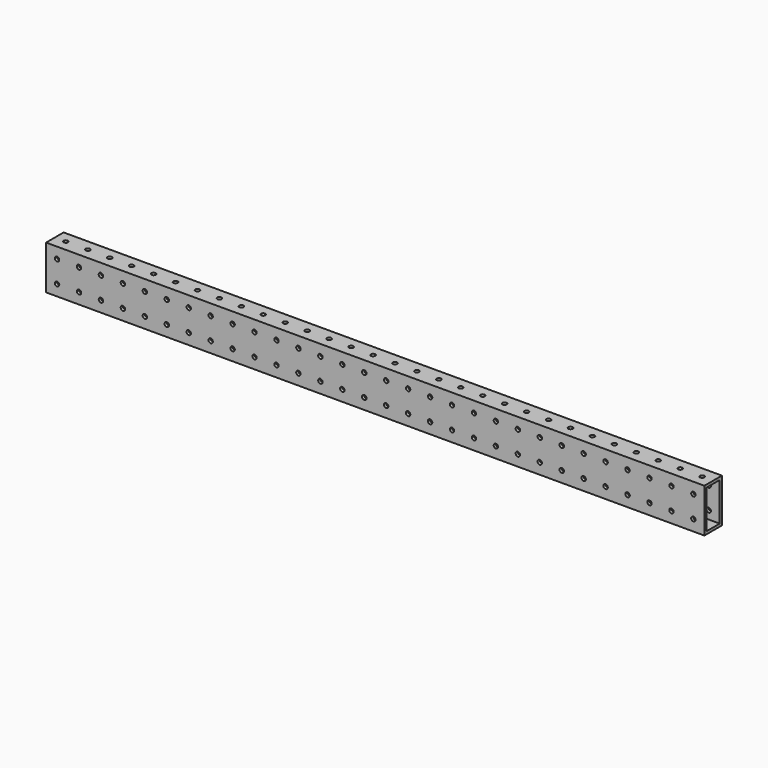
from build123d import *

# Parameters (mm, degrees)
F0_W     = 25.4
F0_H     = 50.8
F0_W_2   = 19.05
F0_H_2   = 44.45
F1_DEPTH = 762
F2_R     = 2.5527
F3_DEPTH = 50.801
F4_R     = 2.5527
F5_DEPTH = 25.4


with BuildPart() as f1:
    # F0 (on Right) → F1 (new body)
    with BuildSketch(Plane.YZ):
        Rectangle(F0_W, F0_H)
        Rectangle(F0_W_2, F0_H_2, mode=Mode.SUBTRACT)
    extrude(amount=F1_DEPTH)

    # F2 (on face) → F3 (cut, through all)
    with BuildSketch(Plane.XY.offset(25.4)):
        with Locations((12.7, 0)):
            Circle(F2_R)
        with Locations((38.1, 0)):
            Circle(F2_R)
        with Locations((63.5, 0)):
            Circle(F2_R)
        with Locations((88.9, 0)):
            Circle(F2_R)
        with Locations((114.3, 0)):
            Circle(F2_R)
        with Locations((139.7, 0)):
            Circle(F2_R)
        with Locations((165.1, 0)):
            Circle(F2_R)
        with Locations((190.5, 0)):
            Circle(F2_R)
        with Locations((215.9, 0)):
            Circle(F2_R)
        with Locations((241.3, 0)):
            Circle(F2_R)
        with Locations((266.7, 0)):
            Circle(F2_R)
        with Locations((292.1, 0)):
            Circle(F2_R)
        with Locations((317.5, 0)):
            Circle(F2_R)
        with Locations((342.9, 0)):
            Circle(F2_R)
        with Locations((368.3, 0)):
            Circle(F2_R)
        with Locations((393.7, 0)):
            Circle(F2_R)
        with Locations((419.1, 0)):
            Circle(F2_R)
        with Locations((444.5, 0)):
            Circle(F2_R)
        with Locations((469.9, 0)):
            Circle(F2_R)
        with Locations((495.3, 0)):
            Circle(F2_R)
        with Locations((520.7, 0)):
            Circle(F2_R)
        with Locations((546.1, 0)):
            Circle(F2_R)
        with Locations((571.5, 0)):
            Circle(F2_R)
        with Locations((596.9, 0)):
            Circle(F2_R)
        with Locations((622.3, 0)):
            Circle(F2_R)
        with Locations((647.7, 0)):
            Circle(F2_R)
        with Locations((673.1, 0)):
            Circle(F2_R)
        with Locations((698.5, 0)):
            Circle(F2_R)
        with Locations((723.9, 0)):
            Circle(F2_R)
        with Locations((749.3, 0)):
            Circle(F2_R)
    extrude(amount=-F3_DEPTH, mode=Mode.SUBTRACT)

    # F4 (on face) → F5 (cut)
    with BuildSketch(Plane.XZ.offset(12.7)):
        with Locations((12.7, 12.7)):
            Circle(F4_R)
        with Locations((12.7, -12.7)):
            Circle(F4_R)
        with Locations((38.1, 12.7)):
            Circle(F4_R)
        with Locations((38.1, -12.7)):
            Circle(F4_R)
        with Locations((63.5, 12.7)):
            Circle(F4_R)
        with Locations((63.5, -12.7)):
            Circle(F4_R)
        with Locations((88.9, 12.7)):
            Circle(F4_R)
        with Locations((88.9, -12.7)):
            Circle(F4_R)
        with Locations((114.3, 12.7)):
            Circle(F4_R)
        with Locations((114.3, -12.7)):
            Circle(F4_R)
        with Locations((139.7, 12.7)):
            Circle(F4_R)
        with Locations((139.7, -12.7)):
            Circle(F4_R)
        with Locations((165.1, 12.7)):
            Circle(F4_R)
        with Locations((165.1, -12.7)):
            Circle(F4_R)
        with Locations((190.5, 12.7)):
            Circle(F4_R)
        with Locations((190.5, -12.7)):
            Circle(F4_R)
        with Locations((215.9, 12.7)):
            Circle(F4_R)
        with Locations((215.9, -12.7)):
            Circle(F4_R)
        with Locations((241.3, 12.7)):
            Circle(F4_R)
        with Locations((241.3, -12.7)):
            Circle(F4_R)
        with Locations((266.7, 12.7)):
            Circle(F4_R)
        with Locations((266.7, -12.7)):
            Circle(F4_R)
        with Locations((292.1, 12.7)):
            Circle(F4_R)
        with Locations((292.1, -12.7)):
            Circle(F4_R)
        with Locations((317.5, 12.7)):
            Circle(F4_R)
        with Locations((317.5, -12.7)):
            Circle(F4_R)
        with Locations((342.9, 12.7)):
            Circle(F4_R)
        with Locations((342.9, -12.7)):
            Circle(F4_R)
        with Locations((368.3, 12.7)):
            Circle(F4_R)
        with Locations((368.3, -12.7)):
            Circle(F4_R)
        with Locations((393.7, 12.7)):
            Circle(F4_R)
        with Locations((393.7, -12.7)):
            Circle(F4_R)
        with Locations((419.1, 12.7)):
            Circle(F4_R)
        with Locations((419.1, -12.7)):
            Circle(F4_R)
        with Locations((444.5, 12.7)):
            Circle(F4_R)
        with Locations((444.5, -12.7)):
            Circle(F4_R)
        with Locations((469.9, 12.7)):
            Circle(F4_R)
        with Locations((469.9, -12.7)):
            Circle(F4_R)
        with Locations((495.3, 12.7)):
            Circle(F4_R)
        with Locations((495.3, -12.7)):
            Circle(F4_R)
        with Locations((520.7, 12.7)):
            Circle(F4_R)
        with Locations((520.7, -12.7)):
            Circle(F4_R)
        with Locations((546.1, 12.7)):
            Circle(F4_R)
        with Locations((546.1, -12.7)):
            Circle(F4_R)
        with Locations((571.5, 12.7)):
            Circle(F4_R)
        with Locations((571.5, -12.7)):
            Circle(F4_R)
        with Locations((596.9, 12.7)):
            Circle(F4_R)
        with Locations((596.9, -12.7)):
            Circle(F4_R)
        with Locations((622.3, 12.7)):
            Circle(F4_R)
        with Locations((622.3, -12.7)):
            Circle(F4_R)
        with Locations((647.7, 12.7)):
            Circle(F4_R)
        with Locations((647.7, -12.7)):
            Circle(F4_R)
        with Locations((673.1, 12.7)):
            Circle(F4_R)
        with Locations((673.1, -12.7)):
            Circle(F4_R)
        with Locations((698.5, 12.7)):
            Circle(F4_R)
        with Locations((698.5, -12.7)):
            Circle(F4_R)
        with Locations((723.9, 12.7)):
            Circle(F4_R)
        with Locations((723.9, -12.7)):
            Circle(F4_R)
        with Locations((749.3, 12.7)):
            Circle(F4_R)
        with Locations((749.3, -12.7)):
            Circle(F4_R)
    extrude(amount=-F5_DEPTH, mode=Mode.SUBTRACT)


solid = f1.part
